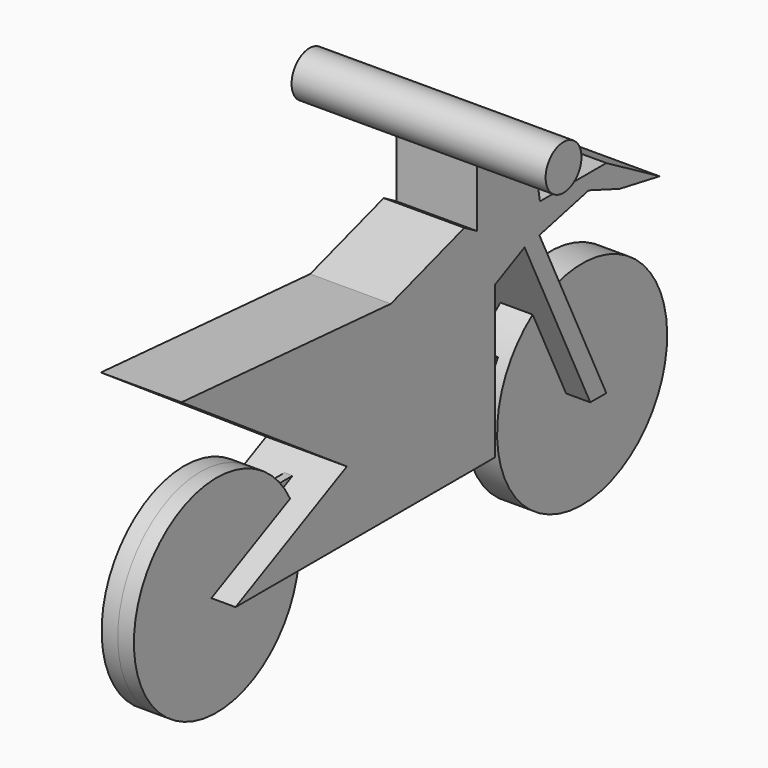
from build123d import *

# Parameters (mm, degrees)
F0_R      = 266.7
F1_DEPTH  = 38.1
F0_R_2    = 228.6
F2_DEPTH  = 50.8
F3_W      = 1447.8
F3_H      = 177.8
F4_DEPTH  = 12.7
F6_DEPTH  = 127
F7_R      = 325.686391
F7_R_2    = 334.768368
F8_DEPTH  = 50.8
F9_R      = 70.609631
F10_DEPTH = 400


with BuildPart() as f1:
    # F0 (on Right) → F1 (new body, symmetric)
    with BuildSketch(Plane.YZ):
        Circle(F0_R)
    extrude(amount=F1_DEPTH, both=True)



with BuildPart() as f2:
    # F0 (on Right) → F2 (new body, symmetric)
    with BuildSketch(Plane.YZ):
        with Locations((-1447.8, 0)):
            Circle(F0_R_2)
    extrude(amount=F2_DEPTH, both=True)


with BuildPart() as f1_1:
    add(f1.part)

    add(f2.part)  # F4 merges F2
    # F3 (on Right) → F4 (join, symmetric)
    with BuildSketch(Plane.YZ):
        with Locations((-723.9, 88.9)):
            Rectangle(F3_W, F3_H)
    extrude(amount=F4_DEPTH, both=True)

    # F5 (on Right) → F6 (join, symmetric)
    with BuildSketch(Plane.YZ):
        Polygon((-848.037601, 592.394769), (-1672.220111, 654.363334), (-1021.323022, 211.851792), (-1459.461212, 0), (-1219.849229, 0), (-438.957124, 0), (-438.957124, 478.463715), (-321.835073, 535.095428), (-63.101806, 0), (0, 0), (-263.467014, 544.885457), (-69.298647, 590.329111), (52.57291, 544.885457), (209.560111, 515.966773), (0, 637.838423), (-261.401385, 637.838423), (-279.991955, 753.513157), (-447.307229, 922.894001), (-509.275854, 922.894001), (-509.275854, 656.428993), (-558.850706, 685.347676), align=None)
    extrude(amount=F6_DEPTH, both=True)

    # F7 (on Right) → F8 (join, symmetric)
    with BuildSketch(Plane.YZ):
        with Locations((-1438.704967, 0)):
            Circle(F7_R)
        Circle(F7_R_2)
    extrude(amount=F8_DEPTH, both=True)

    # F9 (on Right) → F10 (join, symmetric)
    with BuildSketch(Plane.YZ):
        with Locations((-509.713531, 921.78303)):
            Circle(F9_R)
    extrude(amount=F10_DEPTH, both=True)


solid = f1_1.part
